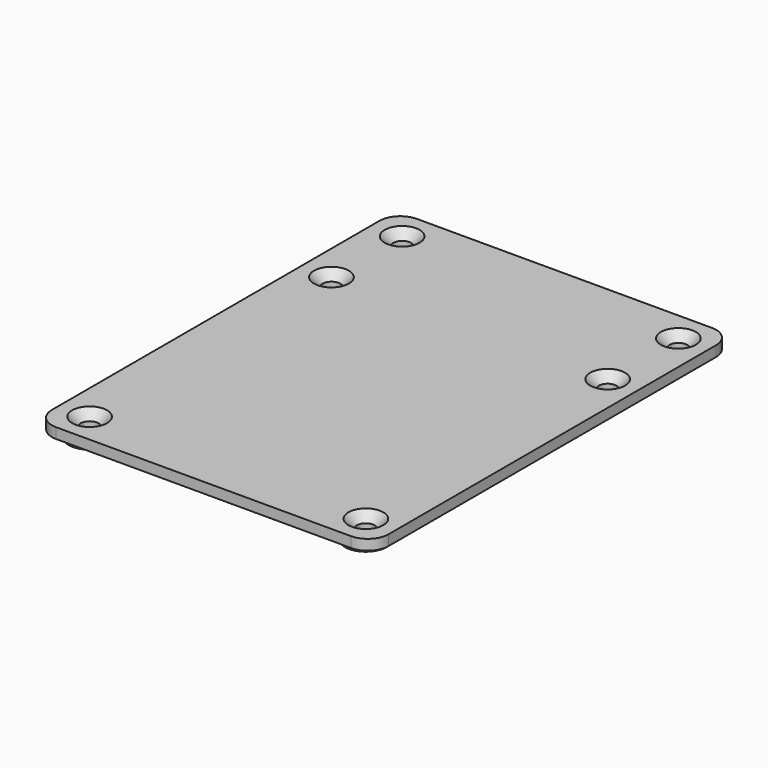
from build123d import *

# Parameters (mm, degrees)
PAD013_DEPTH            = 2
SKETCH020_R             = 4
PAD014_DEPTH            = 3.5
HOLE_D                  = 3.4
HOLE_DEPTH              = 25
HOLE_CSINK_D            = 6.7
HOLE_CSINK_ANGLE        = 90
BODY004_PLACEMENT_ANGLE = 180


with BuildPart() as part:
    # Sketch019 → Pad013 (new body)
    with BuildSketch(Plane.XY):
        with BuildLine():
            Line((-32.3, -39.278), (-32.3, 39.278))
            ThreePointArc((-28.3, 43.278), (-31.128427, 42.106427), (-32.3, 39.278))
            Line((-28.3, 43.278), (28.3, 43.278))
            ThreePointArc((32.3, 39.278), (31.128427, 42.106427), (28.3, 43.278))
            Line((32.3, 39.278), (32.3, -39.278))
            ThreePointArc((28.3, -43.278), (31.128427, -42.106427), (32.3, -39.278))
            Line((28.3, -43.278), (-28.3, -43.278))
            ThreePointArc((-32.3, -39.278), (-31.128427, -42.106427), (-28.3, -43.278))
        make_face()
    extrude(amount=PAD013_DEPTH)

    # Sketch020 → Pad014 (join)
    with BuildSketch(Plane.XY):
        with Locations((-26.5, 37.478)):
            Circle(SKETCH020_R)
        with Locations((26.5, 37.478)):
            Circle(SKETCH020_R)
        with Locations((26.5, 20.522)):
            Circle(SKETCH020_R)
        with Locations((26.5, -37.478)):
            Circle(SKETCH020_R)
        with Locations((-26.5, -37.478)):
            Circle(SKETCH020_R)
        with Locations((-26.5, 20.522)):
            Circle(SKETCH020_R)
    extrude(amount=PAD014_DEPTH)

    # Hole
    with Locations(Plane(origin=(0, 0, 0), x_dir=(1, 0, 0), z_dir=(0, 0, -1))):
        with Locations((-26.5, -37.478), (26.5, -37.478), (26.5, -20.522), (26.5, 37.478), (-26.5, 37.478), (-26.5, -20.522)):
            CounterSinkHole(HOLE_D / 2, HOLE_CSINK_D / 2, depth=HOLE_DEPTH, counter_sink_angle=HOLE_CSINK_ANGLE)


with BuildPart() as part_1:
    # Body004 placement: moved
    add(part.part.moved(Location((0, 0, 61))).rotate(Axis((0, 0, 61), (0, 1, 0)), BODY004_PLACEMENT_ANGLE))


solid = part_1.part
